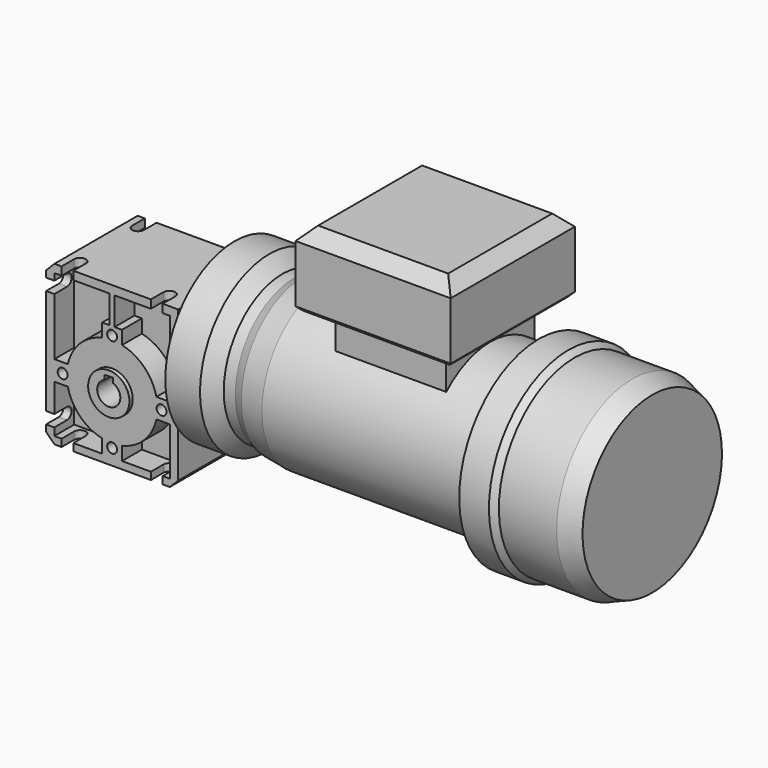
from build123d import *

# Parameters (mm, degrees)
F0_W       = 80.01
F0_H       = 32.992
F1_DEPTH   = 48.175
F3_DEPTH   = 32.992
F4_R       = 12.5
F5_DEPTH   = 34.036
F6_R       = 3
F7_DEPTH   = 7.874
F8_W       = 80.01
F8_H       = 96.35
F8_R       = 3
F8_R_2     = 12.5
F9_DEPTH   = 15
F12_DEPTH  = 5.005
F14_DEPTH  = 4.454
F16_DEPTH  = 5.005
F17_R      = 27
F19_R      = 52.451
F21_DEPTH  = 21
F21_FACE_R = 52.451
F23_R      = 44.45
F27_W      = 67
F27_H      = 67
F28_DEPTH  = 80.772
F29_W      = 94
F29_H      = 94
F30_DEPTH  = 45
F31_SIZE   = 7.62
F32_SIZE   = 2.54
F33_SIZE   = 5.08


with BuildPart() as f1:
    # F0 (on Top) → F1 (new body, symmetric)
    with BuildSketch(Plane.XY):
        Rectangle(F0_W, F0_H)
    extrude(amount=F1_DEPTH, both=True)

    # F2 (on face) → F3 (cut, through all)
    with BuildSketch(Plane.XZ.offset(16.496)):
        with BuildLine():
            Line((-2.5, 0.579), (-2.5, -2.1826515847))
            ThreePointArc((-2.5, -2.1826515847), (0, -15.721), (2.5, -2.1826515847))
            Line((2.5, -2.1826515847), (2.5, 0.579))
            Line((2.5, 0.579), (-2.5, 0.579))
        make_face()
    extrude(amount=-F3_DEPTH, mode=Mode.SUBTRACT)

    # F4 (on Front) → F5 (join, symmetric)
    with BuildSketch(Plane.XZ):
        with Locations((0, -8.721)):
            Circle(F4_R)
        with BuildLine():
            ThreePointArc((2.5, -2.1826515847), (0, -15.721), (-2.5, -2.1826515847))
            Line((-2.5, -2.1826515847), (-2.5, 0.579))
            Line((-2.5, 0.579), (2.5, 0.579))
            Line((2.5, 0.579), (2.5, -2.1826515847))
        make_face(mode=Mode.SUBTRACT)
    extrude(amount=F5_DEPTH, both=True)

    # F6 (on face) → F7 (cut)
    with BuildSketch(Plane.XZ.offset(16.496)):
        with Locations((0, 21.251)):
            Circle(F6_R)
        with Locations((-29.972, -8.721)):
            Circle(F6_R)
        with Locations((0, -38.693)):
            Circle(F6_R)
        with Locations((29.972, -8.721)):
            Circle(F6_R)
    extrude(amount=-F7_DEPTH, mode=Mode.SUBTRACT)

    # F10: F9 across plane


with BuildPart() as f9:
    # F8 (on face) → F9 (new body)
    with BuildSketch(Plane.XZ.offset(16.496)):
        Rectangle(F8_W, F8_H)
        Polygon((-1.5, 43.17), (-1.5, 26.279), (1.5, 26.279), (1.5, 43.17), (35, 43.17), (35, -2.721), (35, -14.721), (35, -43.721), (6, -43.721), (-6, -43.721), (-35, -43.721), (-35, -14.721), (-35, -2.721), (-35, 43.17), align=None, mode=Mode.SUBTRACT)
        with BuildLine():
            Line((-6, 26.279), (-6, 18.1164738006))
            ThreePointArc((-6, 18.1164738006), (-19.4454364826, 10.7244364826), (-26.8374738006, -2.721))
            Line((-26.8374738006, -2.721), (-35, -2.721))
            Line((-35, -2.721), (-35, -14.721))
            Line((-35, -14.721), (-26.8374738006, -14.721))
            ThreePointArc((-26.8374738006, -14.721), (-19.4454364826, -28.1664364826), (-6, -35.5584738006))
            Line((-6, -35.5584738006), (-6, -43.721))
            Line((-6, -43.721), (6, -43.721))
            Line((6, -43.721), (6, -35.5584738006))
            ThreePointArc((6, -35.5584738006), (19.4454364826, -28.1664364826), (26.8374738006, -14.721))
            Line((26.8374738006, -14.721), (35, -14.721))
            Line((35, -14.721), (35, -2.721))
            Line((35, -2.721), (26.8374738006, -2.721))
            ThreePointArc((26.8374738006, -2.721), (19.4454364826, 10.7244364826), (6, 18.1164738006))
            Line((6, 18.1164738006), (6, 26.279))
            Line((6, 26.279), (1.5, 26.279))
            Line((1.5, 26.279), (-1.5, 26.279))
            Line((-1.5, 26.279), (-6, 26.279))
        make_face()
        with Locations((-29.972, -8.721)):
            Circle(F8_R, mode=Mode.SUBTRACT)
        with Locations((0, -38.693)):
            Circle(F8_R, mode=Mode.SUBTRACT)
        with Locations((0, -8.721)):
            Circle(F8_R_2, mode=Mode.SUBTRACT)
        with Locations((29.972, -8.721)):
            Circle(F8_R, mode=Mode.SUBTRACT)
        with Locations((0, 21.251)):
            Circle(F8_R, mode=Mode.SUBTRACT)
    extrude(amount=F9_DEPTH)


with BuildPart() as f1_1:
    add(f1.part)
    add(f9.part.mirror(Plane.XZ))


with BuildPart() as f12_tool:
    # F11 (on face) → F12 (new body, through all)
    with BuildSketch(Plane.XY.offset(48.175)):
        with BuildLine():
            Line((-30.607, -21.971), (-30.607, -31.496))
            Line((-30.607, -31.496), (-23.495, -31.496))
            Line((-23.495, -31.496), (-23.495, -21.971))
            ThreePointArc((-23.495, -21.971), (-27.051, -18.415), (-30.607, -21.971))
        make_face()
        with BuildLine():
            Line((30.607, -31.496), (30.607, -21.971))
            ThreePointArc((30.607, -21.971), (27.051, -18.415), (23.495, -21.971))
            Line((23.495, -21.971), (23.495, -31.496))
            Line((23.495, -31.496), (30.607, -31.496))
        make_face()
        with BuildLine():
            Line((-30.607, 31.496), (-30.607, 21.971))
            ThreePointArc((-30.607, 21.971), (-27.051, 18.415), (-23.495, 21.971))
            Line((-23.495, 21.971), (-23.495, 31.496))
            Line((-23.495, 31.496), (-30.607, 31.496))
        make_face()
        with BuildLine():
            Line((30.607, 21.971), (30.607, 31.496))
            Line((30.607, 31.496), (23.495, 31.496))
            Line((23.495, 31.496), (23.495, 21.971))
            ThreePointArc((23.495, 21.971), (27.051, 18.415), (30.607, 21.971))
        make_face()
    extrude(amount=-F12_DEPTH)


with BuildPart() as f1_2:
    add(f1_1.part)

    # F12: cut by f12_tool
    add(f12_tool.part, mode=Mode.SUBTRACT)


with BuildPart() as f9_1:
    add(f9.part)

    # F12: cut by f12_tool
    add(f12_tool.part, mode=Mode.SUBTRACT)


with BuildPart() as f14_tool:
    # F13 (on face) → F14 (new body, through all)
    with BuildSketch(Plane(origin=(0, 0, -48.175), x_dir=(1, 0, 0), z_dir=(0, 0, -1))):
        with BuildLine():
            ThreePointArc((-30.607, 21.971), (-27.051, 18.415), (-23.495, 21.971))
            Line((-23.495, 21.971), (-23.495, 31.496))
            Line((-23.495, 31.496), (-30.607, 31.496))
            Line((-30.607, 31.496), (-30.607, 21.971))
        make_face()
        with BuildLine():
            Line((23.495, 31.496), (23.495, 21.971))
            ThreePointArc((23.495, 21.971), (27.051, 18.415), (30.607, 21.971))
            Line((30.607, 21.971), (30.607, 31.496))
            Line((30.607, 31.496), (23.495, 31.496))
        make_face()
        with BuildLine():
            ThreePointArc((30.607, -21.971), (27.051, -18.415), (23.495, -21.971))
            Line((23.495, -21.971), (23.495, -31.496))
            Line((23.495, -31.496), (30.607, -31.496))
            Line((30.607, -31.496), (30.607, -21.971))
        make_face()
        with BuildLine():
            Line((-30.607, -21.971), (-30.607, -31.496))
            Line((-30.607, -31.496), (-23.495, -31.496))
            Line((-23.495, -31.496), (-23.495, -21.971))
            ThreePointArc((-23.495, -21.971), (-27.051, -18.415), (-30.607, -21.971))
        make_face()
    extrude(amount=-F14_DEPTH)


with BuildPart() as f1_3:
    add(f1_2.part)

    # F14: cut by f14_tool
    add(f14_tool.part, mode=Mode.SUBTRACT)


with BuildPart() as f9_2:
    add(f9_1.part)

    # F14: cut by f14_tool
    add(f14_tool.part, mode=Mode.SUBTRACT)


with BuildPart() as f16_tool:
    # F15 (on face) → F16 (new body, through all)
    with BuildSketch(Plane(origin=(-40.005, 0, 0), x_dir=(0, -1, 0), z_dir=(-1, 0, 0))):
        with BuildLine():
            Line((31.496, 32.004), (31.496, 39.116))
            Line((31.496, 39.116), (21.971, 39.116))
            ThreePointArc((21.971, 39.116), (18.415, 35.56), (21.971, 32.004))
            Line((21.971, 32.004), (31.496, 32.004))
        make_face()
        with BuildLine():
            ThreePointArc((-21.971, 32.004), (-18.415, 35.56), (-21.971, 39.116))
            Line((-21.971, 39.116), (-31.496, 39.116))
            Line((-31.496, 39.116), (-31.496, 32.004))
            Line((-31.496, 32.004), (-21.971, 32.004))
        make_face()
        with BuildLine():
            Line((-31.496, -32.004), (-31.496, -39.116))
            Line((-31.496, -39.116), (-21.971, -39.116))
            ThreePointArc((-21.971, -39.116), (-18.415, -35.56), (-21.971, -32.004))
            Line((-21.971, -32.004), (-31.496, -32.004))
        make_face()
        with BuildLine():
            ThreePointArc((21.971, -32.004), (18.415, -35.56), (21.971, -39.116))
            Line((21.971, -39.116), (31.496, -39.116))
            Line((31.496, -39.116), (31.496, -32.004))
            Line((31.496, -32.004), (21.971, -32.004))
        make_face()
    extrude(amount=-F16_DEPTH)


with BuildPart() as f1_4:
    add(f1_3.part)

    # F16: cut by f16_tool
    add(f16_tool.part, mode=Mode.SUBTRACT)



with BuildPart() as f9_3:
    add(f9_2.part)

    # F16: cut by f16_tool
    add(f16_tool.part, mode=Mode.SUBTRACT)


with BuildPart() as f1_5:
    add(f1_4.part)

    add(f9_3.part)  # F20 merges F9
    # F17 (on face) → F20 section 0
    with BuildSketch(Plane.YZ.offset(40.005)):
        with Locations((0, 22.267)):
            Circle(F17_R)
    # F19 (on offset) → F20 section 1
    with BuildSketch(Plane(origin=(48.995, 0, 0), x_dir=(0, -1, 0), z_dir=(-1, 0, 0))):
        with Locations((0, 22.267)):
            Circle(F19_R)
    loft()

    # F19 (on offset) → F21 (join)
    with BuildSketch(Plane(origin=(48.995, 0, 0), x_dir=(0, -1, 0), z_dir=(-1, 0, 0))):
        with Locations((0, 22.267)):
            Circle(F19_R)
    extrude(amount=-F21_DEPTH)

    # F21_face (on face) → F24 section 0
    with BuildSketch(Plane(origin=(69.995, 0, 22.267), x_dir=(0, -1, 0), z_dir=(1, 0, 0))):
        Circle(F21_FACE_R)
    # F23 (on offset) → F24 section 1
    with BuildSketch(Plane.YZ.offset(77.995)):
        with Locations((0, 22.267)):
            Circle(F23_R)
    loft()

    # F25 (on Front) → F26 (revolve)
    with BuildSketch(Plane.XZ):
        Polygon((84.9672986563, 66.717), (77.995, 66.717), (77.995, 22.267), (301.995, 22.267), (301.995, 75.0546455383), (289.995, 79.6519890428), (254.995, 79.6519890428), (251.252396116, 82.4864879847), (233.252396116, 82.4864879847), (233.252396116, 71.4864879847), (104.9230620265, 71.4864879847), (90.6504243612, 69.2906975746), align=None)
    revolve(axis=Axis((189.995, 0, 22.267), (-1, 0, 0)))

    # F27 (on Top) → F28 (join)
    with BuildSketch(Plane.XY):
        with Locations((170.495, 0)):
            Rectangle(F27_W, F27_H)
    extrude(amount=F28_DEPTH)

    # F29 (on face) → F30 (join)
    with BuildSketch(Plane.XY.offset(80.772)):
        with Locations((170.495, 0)):
            Rectangle(F29_W, F29_H)
    extrude(amount=F30_DEPTH)

    # F31
    f31_edges = [f1_5.edges().sort_by_distance(p)[0] for p in [
        (170.495, 47, 125.772),
        (123.495, 0, 125.772),
        (170.495, -47, 125.772),
        (217.495, 0, 125.772),
    ]]
    chamfer(f31_edges, length=F31_SIZE)

    # F32
    f32_edges = [f1_5.edges().sort_by_distance(p)[0] for p in [
        (170.495, 47, 80.772),
        (217.495, 0, 80.772),
        (123.495, 0, 80.772),
        (170.495, -47, 80.772),
        (203.995, 0, 80.772),
        (170.495, 33.5, 80.772),
        (136.995, 0, 80.772),
        (170.495, -33.5, 80.772),
    ]]
    chamfer(f32_edges, length=F32_SIZE)

    # F33
    f33_edges = [f1_5.edges().sort_by_distance(p)[0] for p in [
        (-40.005, 0, 48.175),
        (-40.005, 0, -48.175),
        (40.005, 0, -48.175),
    ]]
    chamfer(f33_edges, length=F33_SIZE)


solid = f1_5.part
